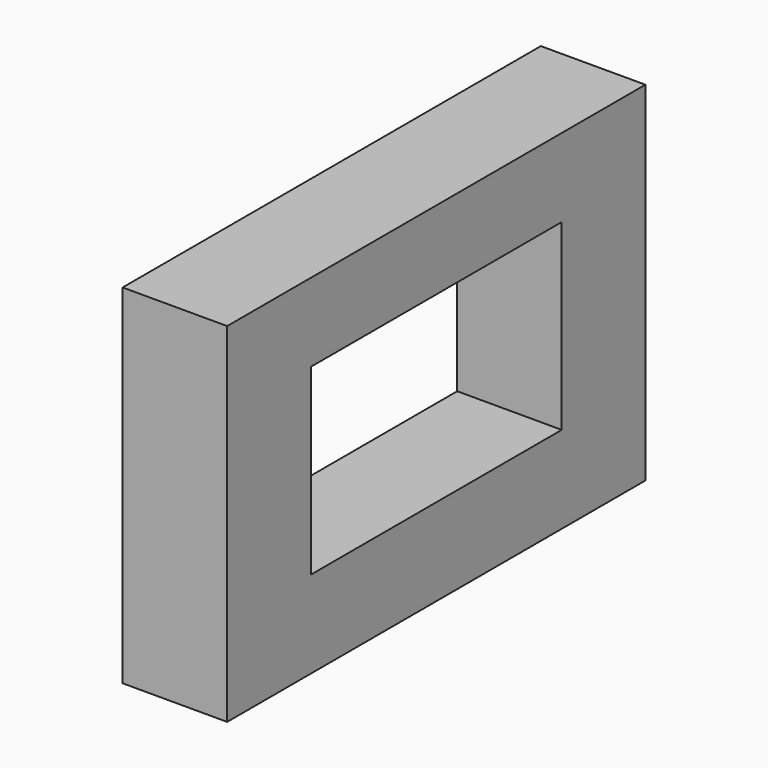
from build123d import *

# Parameters (mm, degrees)
F0_W     = 609.6
F0_H     = 1828.8
F1_DEPTH = 508
F4_W     = 609.6
F4_H     = 3048
F5_DEPTH = 2032
F6_W     = 1828.8
F6_H     = 1066.8
F7_DEPTH = 609.6


with BuildPart() as f1:
    # F0 (on Top) → F1 (new body)
    with BuildSketch(Plane.XY):
        with Locations((304.8, 596.553694)):
            Rectangle(F0_W, F0_H)
    extrude(amount=F1_DEPTH)

    # F4 (on Top) → F5 (join)
    with BuildSketch(Plane.XY):
        with Locations((304.8, 596.553694)):
            Rectangle(F4_W, F4_H)
    extrude(amount=F5_DEPTH)

    # F6 (on face) → F7 (cut, through all)
    with BuildSketch(Plane.YZ.offset(609.6)):
        with Locations((596.553694, 1041.4)):
            Rectangle(F6_W, F6_H)
    extrude(amount=-F7_DEPTH, mode=Mode.SUBTRACT)


solid = f1.part
